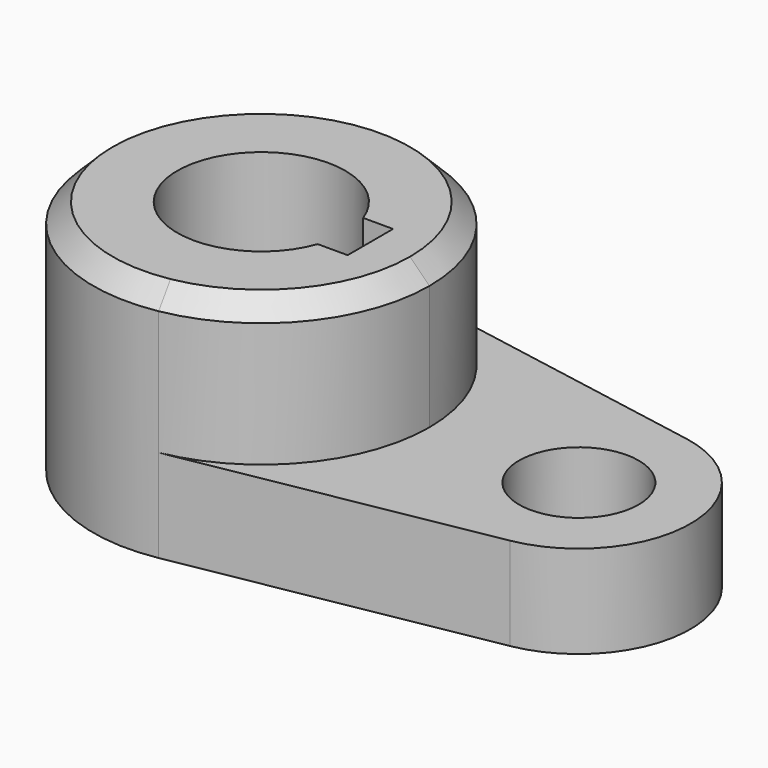
from build123d import *

# Parameters (mm, degrees)
F1_DEPTH = 40.2336
F0_R     = 10.16
F2_DEPTH = 15.7734
F3_SIZE  = 3.302


with BuildPart() as f1:
    # F0 (on Top) → F1 (new body)
    with BuildSketch(Plane.XY):
        with BuildLine():
            ThreePointArc((5.050141, -28.125197), (21.918467, -18.333342), (28.575, 0))
            ThreePointArc((28.575, 0), (21.918467, 18.333342), (5.050141, 28.125197))
            ThreePointArc((5.050141, 28.125197), (-28.575, 0), (5.050141, -28.125197))
        make_face()
        with BuildLine():
            ThreePointArc((13.447765, -4.826), (-14.2875, 0), (13.447765, 4.826))
            Line((13.447765, 4.826), (18.5293, 4.826))
            Line((18.5293, 4.826), (18.5293, -4.826))
            Line((18.5293, -4.826), (13.447765, -4.826))
        make_face(mode=Mode.SUBTRACT)
    extrude(amount=F1_DEPTH)

    # F0 (on Top) → F2 (join)
    with BuildSketch(Plane.XY):
        with BuildLine():
            ThreePointArc((5.050141, 28.125197), (21.918467, 18.333342), (28.575, 0))
            ThreePointArc((28.575, 0), (21.918467, -18.333342), (5.050141, -28.125197))
            Line((5.050141, -28.125197), (57.261665, -18.750131))
            ThreePointArc((57.261665, -18.750131), (72.944904, 0), (57.261665, 18.750131))
            Line((57.261665, 18.750131), (5.050141, 28.125197))
        make_face()
        with Locations((53.975, 0)):
            Circle(F0_R, mode=Mode.SUBTRACT)
    extrude(amount=F2_DEPTH)

    # F3
    f3_edges = [f1.edges().sort_by_distance(p)[0] for p in [
        (-5.050141, 28.125197, 40.2336),
    ]]
    chamfer(f3_edges, length=F3_SIZE)


solid = f1.part
